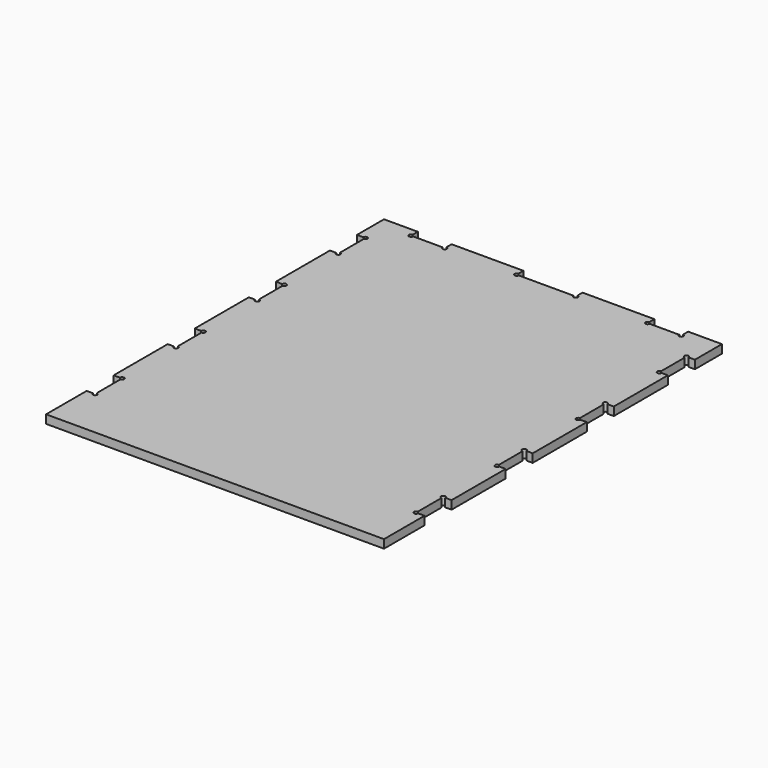
from build123d import *

# Parameters (mm, degrees)
F1_DEPTH = 6.35


with BuildPart() as f1:
    # F0 (on Top) → F1 (new body)
    with BuildSketch(Plane.XY):
        with BuildLine():
            Line((-103.585208, 203.2), (-128.985208, 203.2))
            Line((-128.985208, 203.2), (-128.985208, 177.8))
            Line((-128.985208, 177.8), (-124.222708, 177.8))
            ThreePointArc((-124.222708, 177.8), (-122.635208, 179.3875), (-121.047708, 177.8))
            ThreePointArc((-121.047708, 177.8), (-121.512676, 176.677468), (-122.635208, 176.2125))
            Line((-122.635208, 176.2125), (-122.635208, 153.9875))
            ThreePointArc((-122.635208, 153.9875), (-121.512676, 153.522532), (-121.047708, 152.4))
            ThreePointArc((-121.047708, 152.4), (-122.635208, 150.8125), (-124.222708, 152.4))
            Line((-124.222708, 152.4), (-128.985208, 152.4))
            Line((-128.985208, 152.4), (-128.985208, 101.6))
            Line((-128.985208, 101.6), (-124.222708, 101.6))
            ThreePointArc((-124.222708, 101.6), (-122.635208, 103.1875), (-121.047708, 101.6))
            ThreePointArc((-121.047708, 101.6), (-121.512676, 100.477468), (-122.635208, 100.0125))
            Line((-122.635208, 100.0125), (-122.635208, 77.7875))
            ThreePointArc((-122.635208, 77.7875), (-121.512676, 77.322532), (-121.047708, 76.2))
            ThreePointArc((-121.047708, 76.2), (-122.635208, 74.6125), (-124.222708, 76.2))
            Line((-124.222708, 76.2), (-128.985208, 76.2))
            Line((-128.985208, 76.2), (-128.985208, 25.4))
            Line((-128.985208, 25.4), (-124.222708, 25.4))
            ThreePointArc((-124.222708, 25.4), (-122.635208, 26.9875), (-121.047708, 25.4))
            ThreePointArc((-121.047708, 25.4), (-121.512676, 24.277468), (-122.635208, 23.8125))
            Line((-122.635208, 23.8125), (-122.635208, 1.5875))
            ThreePointArc((-122.635208, 1.5875), (-121.512676, 1.122532), (-121.047708, 0))
            ThreePointArc((-121.047708, 0), (-122.635208, -1.5875), (-124.222708, 0))
            Line((-124.222708, 0), (-128.985208, 0))
            Line((-128.985208, 0), (-128.985208, -50.8))
            Line((-128.985208, -50.8), (-124.222708, -50.8))
            ThreePointArc((-124.222708, -50.8), (-122.635208, -49.2125), (-121.047708, -50.8))
            ThreePointArc((-121.047708, -50.8), (-121.512676, -51.922532), (-122.635208, -52.3875))
            Line((-122.635208, -52.3875), (-122.635208, -74.6125))
            ThreePointArc((-122.635208, -74.6125), (-121.512676, -75.077468), (-121.047708, -76.2))
            ThreePointArc((-121.047708, -76.2), (-122.635208, -77.7875), (-124.222708, -76.2))
            Line((-124.222708, -76.2), (-128.985208, -76.2))
            Line((-128.985208, -76.2), (-128.985208, -114.3))
            Line((-128.985208, -114.3), (125.014792, -114.3))
            Line((125.014792, -114.3), (125.014792, -76.2))
            Line((125.014792, -76.2), (120.252292, -76.2))
            ThreePointArc((120.252292, -76.2), (117.54226, -77.322532), (118.664792, -74.6125))
            Line((118.664792, -74.6125), (118.664792, -52.3875))
            ThreePointArc((118.664792, -52.3875), (117.54226, -49.677468), (120.252292, -50.8))
            Line((120.252292, -50.8), (125.014792, -50.8))
            Line((125.014792, -50.8), (125.014792, 0))
            Line((125.014792, 0), (120.252292, 0))
            ThreePointArc((120.252292, 0), (117.54226, -1.122532), (118.664792, 1.5875))
            Line((118.664792, 1.5875), (118.664792, 23.8125))
            ThreePointArc((118.664792, 23.8125), (117.54226, 26.522532), (120.252292, 25.4))
            Line((120.252292, 25.4), (125.014792, 25.4))
            Line((125.014792, 25.4), (125.014792, 76.2))
            Line((125.014792, 76.2), (120.252292, 76.2))
            ThreePointArc((120.252292, 76.2), (117.54226, 75.077468), (118.664792, 77.7875))
            Line((118.664792, 77.7875), (118.664792, 100.0125))
            ThreePointArc((118.664792, 100.0125), (117.54226, 102.722532), (120.252292, 101.6))
            Line((120.252292, 101.6), (125.014792, 101.6))
            Line((125.014792, 101.6), (125.014792, 152.4))
            Line((125.014792, 152.4), (120.252292, 152.4))
            ThreePointArc((120.252292, 152.4), (117.54226, 151.277468), (118.664792, 153.9875))
            Line((118.664792, 153.9875), (118.664792, 176.2125))
            ThreePointArc((118.664792, 176.2125), (117.54226, 178.922532), (120.252292, 177.8))
            Line((120.252292, 177.8), (125.014792, 177.8))
            Line((125.014792, 177.8), (125.014792, 203.2))
            Line((125.014792, 203.2), (99.614792, 203.2))
            Line((99.614792, 203.2), (99.614792, 198.4375))
            ThreePointArc((99.614792, 198.4375), (100.737324, 197.972532), (101.202292, 196.85))
            ThreePointArc((101.202292, 196.85), (99.614792, 195.2625), (98.027292, 196.85))
            Line((98.027292, 196.85), (75.802292, 196.85))
            ThreePointArc((75.802292, 196.85), (73.09226, 195.727468), (74.214792, 198.4375))
            Line((74.214792, 198.4375), (74.214792, 203.2))
            Line((74.214792, 203.2), (20.239792, 203.2))
            Line((20.239792, 203.2), (20.239792, 198.4375))
            ThreePointArc((20.239792, 198.4375), (21.362324, 197.972532), (21.827292, 196.85))
            ThreePointArc((21.827292, 196.85), (20.239792, 195.2625), (18.652292, 196.85))
            Line((18.652292, 196.85), (-22.622708, 196.85))
            ThreePointArc((-22.622708, 196.85), (-25.33274, 195.727468), (-24.210208, 198.4375))
            Line((-24.210208, 198.4375), (-24.210208, 203.2))
            Line((-24.210208, 203.2), (-78.185208, 203.2))
            Line((-78.185208, 203.2), (-78.185208, 198.4375))
            ThreePointArc((-78.185208, 198.4375), (-77.062676, 197.972532), (-76.597708, 196.85))
            ThreePointArc((-76.597708, 196.85), (-78.185208, 195.2625), (-79.772708, 196.85))
            Line((-79.772708, 196.85), (-101.997708, 196.85))
            ThreePointArc((-101.997708, 196.85), (-104.70774, 195.727468), (-103.585208, 198.4375))
            Line((-103.585208, 198.4375), (-103.585208, 203.2))
        make_face()
    extrude(amount=F1_DEPTH)


solid = f1.part
